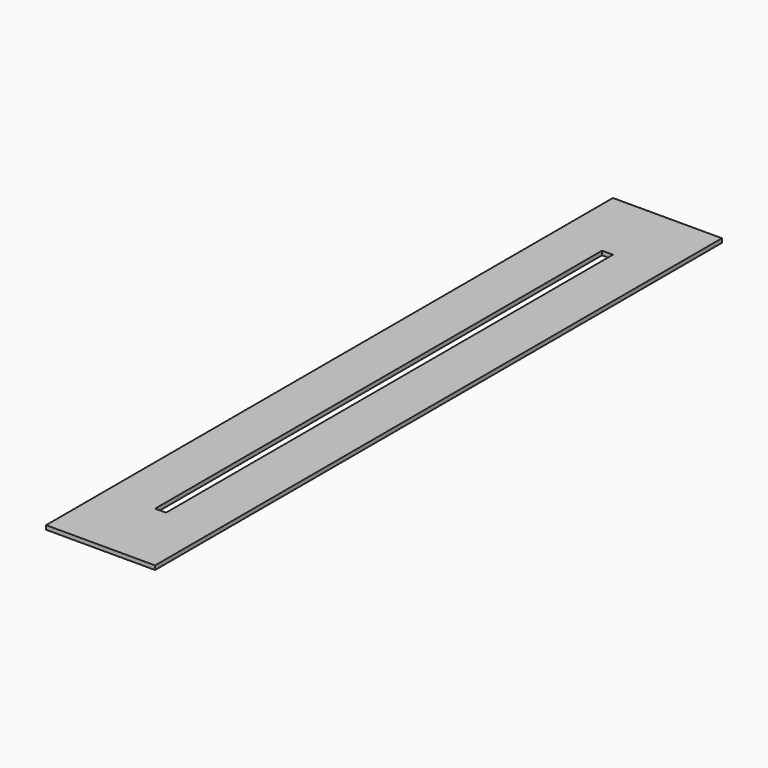
from build123d import *

# Parameters (mm, degrees)
F1_DEPTH = 3


with BuildPart() as f1:
    # F0 (on Top) → F1 (new body)
    with BuildSketch(Plane.XY):
        Polygon((80, 0), (0, 0), (0, -260), (36, -260), (36, -55), (44, -55), (44, -260), (80, -260), align=None)
        Polygon((36, -260), (0, -260), (0, -520), (80, -520), (80, -260), (44, -260), (44, -465), (36, -465), align=None)
    extrude(amount=F1_DEPTH)


solid = f1.part
